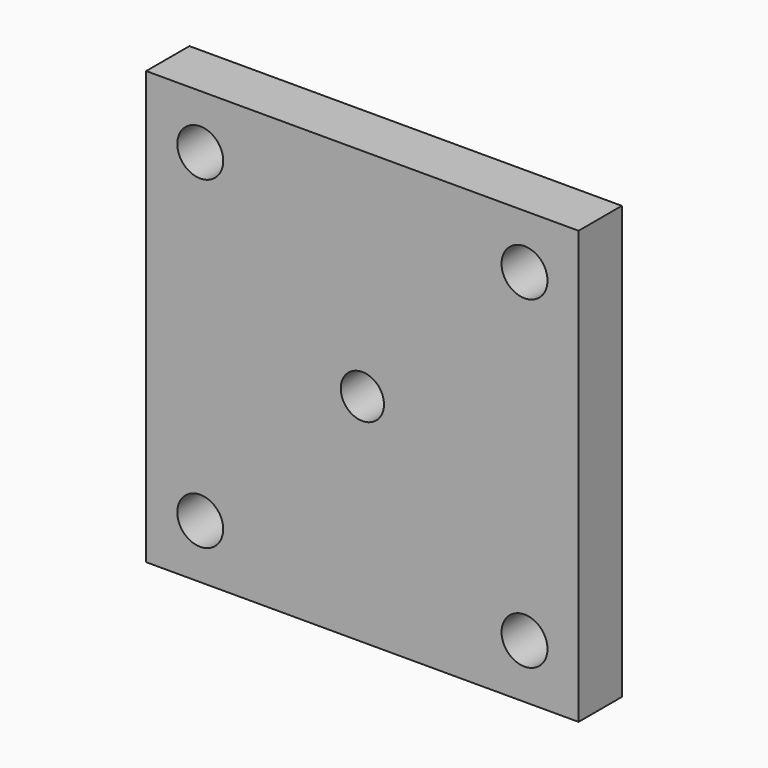
from build123d import *

# Parameters (mm, degrees)
F0_W     = 80
F0_H     = 80
F1_DEPTH = 10
F2_D     = 8.5
F4_D     = 8


with BuildPart() as f1:
    # F0 (on Front) → F1 (new body)
    with BuildSketch(Plane.XZ):
        Rectangle(F0_W, F0_H)
    extrude(amount=F1_DEPTH)

    # F2 (through all)
    with Locations(Plane(origin=(0, 0, 0), x_dir=(1, 0, 0), z_dir=(0, 1, 0))):
        with Locations((-30, 30), (30, 30), (30, -30), (-30, -30)):
            Hole(F2_D / 2)

    # F4 (through all)
    with Locations(Plane(origin=(0, 0, 0), x_dir=(1, 0, 0), z_dir=(0, 1, 0))):
        with Locations((0, 0)):
            Hole(F4_D / 2)


solid = f1.part
